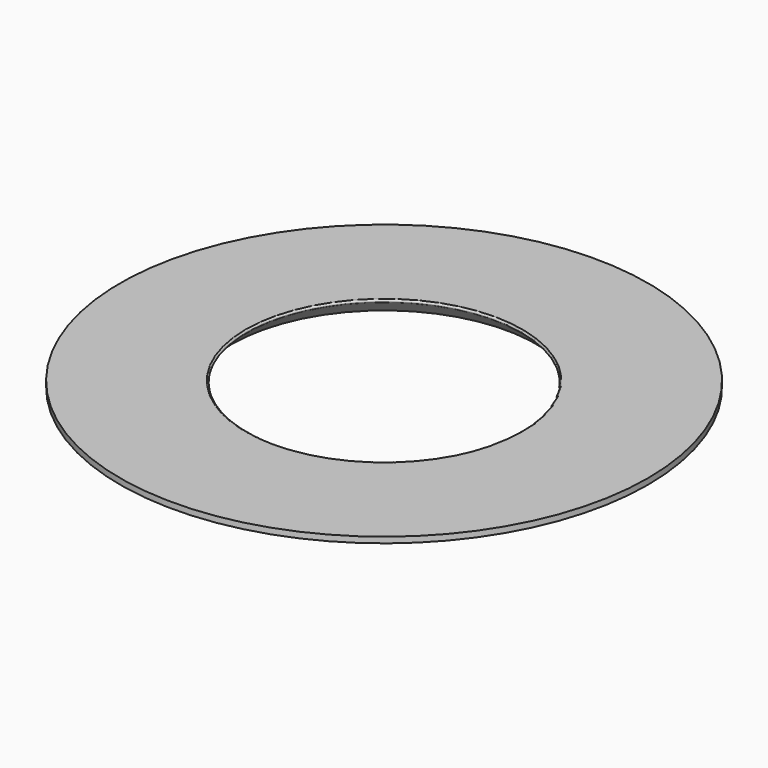
from build123d import *


with BuildPart() as f1:
    # F0 (on Front) → F1 (revolve)
    with BuildSketch(Plane.XZ):
        with BuildLine():
            ThreePointArc((0.603553, 0), (0.372584, -0.154329), (0.426777, -0.426777))
            Line((0.426777, -0.426777), (3, -3))
            Line((3, -3), (17.8, -3))
            Line((17.8, -3), (17.8, -1))
            Line((17.8, -1), (22, -1))
            Line((22, -1), (22, 0))
            Line((22, 0), (0.603553, 0))
        make_face()
    revolve(axis=Axis((-23, 0, -3.261174), (0, 0, -1)))


solid = f1.part
